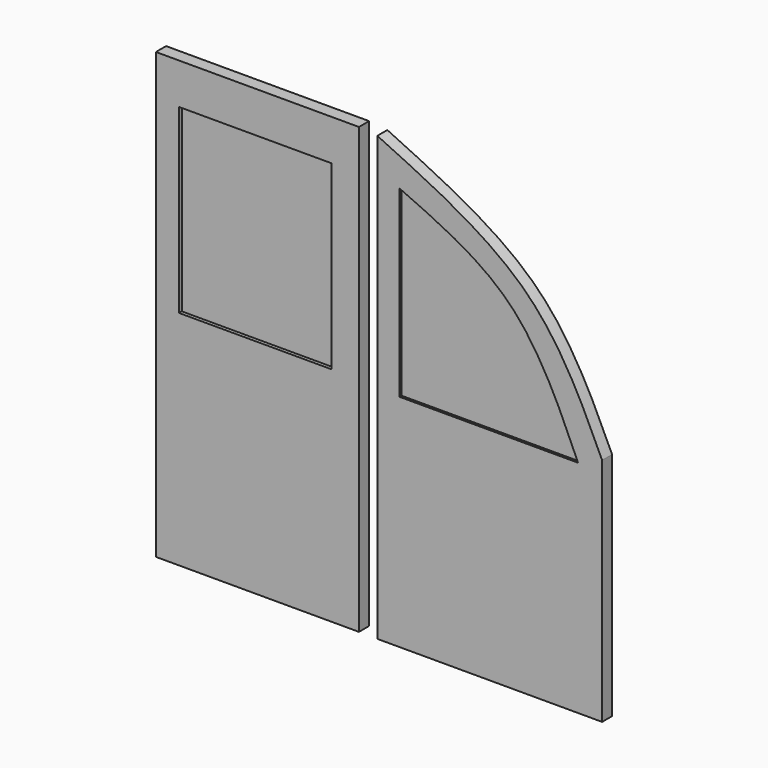
from build123d import *

# Parameters (mm, degrees)
F0_W      = 20.6513749436
F0_H      = 45.2097626403
F1_DEPTH  = 1.2954
F2_W      = 15.5173763633
F2_H      = 18.4473977424
F3_DEPTH  = 0.3556
F5_DEPTH  = 1.27
F7_DEPTH  = 0.254
F8_W      = 15.5410431325
F8_H      = 18.4918753803
F9_DEPTH  = 0.381
F11_DEPTH = 0.508


with BuildPart() as f1:
    # F0 (on Front) → F1 (new body)
    with BuildSketch(Plane.XZ):
        with Locations((-25.6260237657, 37.3561470769)):
            Rectangle(F0_W, F0_H)
    extrude(amount=F1_DEPTH)

    # F2 (on face) → F3 (cut)
    with BuildSketch(Plane.XZ.offset(1.2954)):
        with Locations((-25.8462056518, 46.5798459481)):
            Rectangle(F2_W, F2_H)
    extrude(amount=-F3_DEPTH, mode=Mode.SUBTRACT)

    # F8 (on face) → F9 (cut)
    with BuildSketch(Plane(origin=(0, 0, 0), x_dir=(-1, 0, 0), z_dir=(0, 1, 0))):
        with Locations((25.8446913213, 46.6582681984)):
            Rectangle(F8_W, F8_H)
    extrude(amount=-F9_DEPTH, mode=Mode.SUBTRACT)


with BuildPart() as f5:
    # F4 (on Front) → F5 (new body)
    with BuildSketch(Plane.XZ):
        with BuildLine():
            add(Edge.make_bspline(
                [(9.4122933224, 38.1533578038), (7.3415128605, 42.6377063389), (2.9915003574, 52.0578126972), (-7.7960400253, 57.1144170399), (-13.4482784197, 59.7638748586)],
                knots=[0, 0, 0, 0, 0.4760401172, 1, 1, 1, 1], degree=3))
            Line((-13.4482784197, 59.7638748586), (-13.4482784197, 14.7161055356))
            Line((-13.4482784197, 14.7161055356), (9.4122933224, 14.7161055356))
            Line((9.4122933224, 14.7161055356), (9.4122933224, 38.1533578038))
        make_face()
    extrude(amount=F5_DEPTH)

    # F6 (on face) → F7 (cut)
    with BuildSketch(Plane.XZ.offset(1.27)):
        with BuildLine():
            add(Edge.make_bspline(
                [(6.9700647146, 37.1249839664), (5.0327711758, 41.5409809715), (1.2146105452, 50.2443527487), (-7.1023339447, 53.9603098649), (-11.1993504688, 55.7908304036)],
                knots=[0, 0, 0, 0, 0.5073892186, 1, 1, 1, 1], degree=3))
            Line((-11.1993504688, 55.7908304036), (-11.1993504688, 37.1249839664))
            Line((-11.1993504688, 37.1249839664), (6.9700647146, 37.1249839664))
        make_face()
    extrude(amount=-F7_DEPTH, mode=Mode.SUBTRACT)

    # F10 (on face) → F11 (cut)
    with BuildSketch(Plane(origin=(0, 0, 0), x_dir=(-1, 0, 0), z_dir=(0, 1, 0))):
        with BuildLine():
            Line((11.2799312919, 37.2494496405), (11.2799312919, 55.7006895542))
            add(Edge.make_bspline(
                [(-6.9435159676, 37.2494496405), (-5.038828544, 41.7928932275), (-1.3073304569, 50.6940130879), (7.1429635524, 54.0551800354), (11.2799312919, 55.7006895542)],
                knots=[0, 0, 0, 0, 0.5104350529, 1, 1, 1, 1], degree=3))
            Line((-6.9435159676, 37.2494496405), (11.2799312919, 37.2494496405))
        make_face()
    extrude(amount=-F11_DEPTH, mode=Mode.SUBTRACT)


solid = Compound([f1.part, f5.part])
